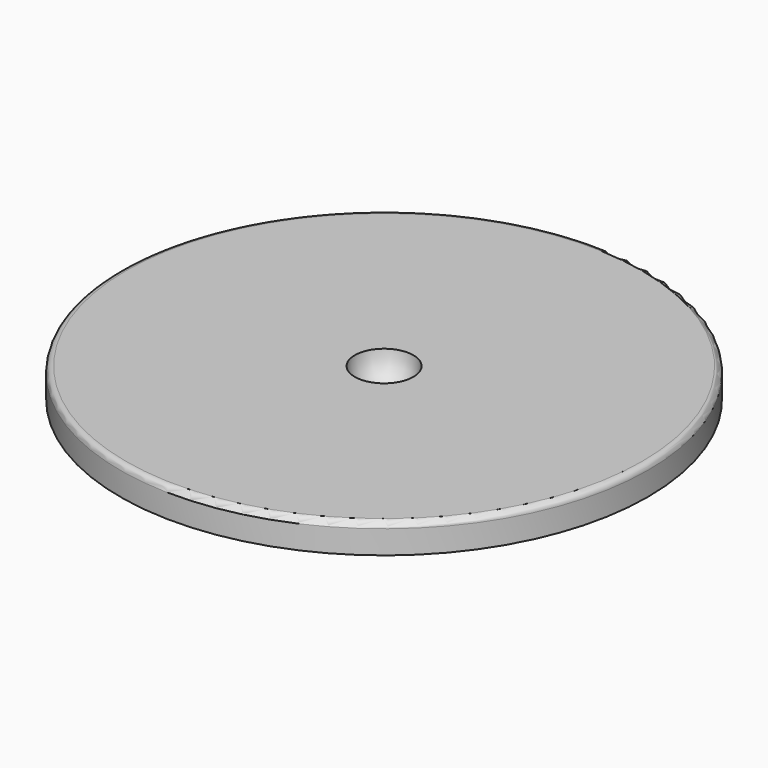
from build123d import *

# Parameters (mm, degrees)
F2_R = 1


with BuildPart() as f1:
    # F0 (on Front) → F1 (revolve)
    with BuildSketch(Plane.XZ):
        with BuildLine():
            Line((0, 5), (0, 0))
            Line((0, 0), (35, 0))
            Line((35, 0), (35, 5))
            Line((35, 5), (45, 5))
            Line((45, 5), (45, 10))
            Line((45, 10), (5, 10))
            ThreePointArc((5, 10), (3.535534, 6.464466), (0, 5))
        make_face()
    revolve(axis=Axis((0, 0, 5), (0, 0, -1)))

    # F2
    f2_edges = [f1.edges().sort_by_distance(p)[0] for p in [
        (-45, 0, 10),
    ]]
    fillet(f2_edges, radius=F2_R)


solid = f1.part
